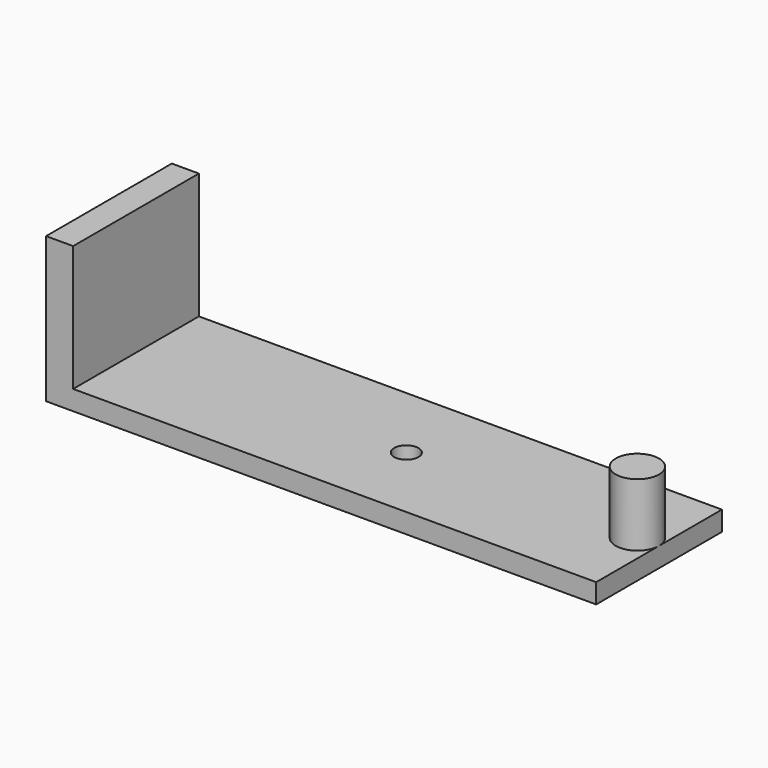
from build123d import *

# Parameters (mm, degrees)
F0_W     = 88.9
F0_H     = 25.4
F1_DEPTH = 3.175
F2_R     = 3.5
F3_DEPTH = 10.16
F4_R     = 1.9685
F5_DEPTH = 25.4
F6_W     = 4.374
F6_H     = 25.4
F7_DEPTH = 20.32


with BuildPart() as f1:
    # F0 (on Top) → F1 (new body)
    with BuildSketch(Plane.XY):
        Rectangle(F0_W, F0_H)
    extrude(amount=F1_DEPTH)

    # F2 (on face) → F3 (join)
    with BuildSketch(Plane.XY.offset(3.175)):
        with Locations((40.95, 0)):
            Circle(F2_R)
    extrude(amount=F3_DEPTH)

    # F4 (on face) → F5 (cut)
    with BuildSketch(Plane.XY.offset(3.175)):
        with Locations((3.612, 0)):
            Circle(F4_R)
    extrude(amount=-F5_DEPTH, mode=Mode.SUBTRACT)

    # F6 (on face) → F7 (join)
    with BuildSketch(Plane.XY.offset(3.175)):
        with Locations((-42.263, 0)):
            Rectangle(F6_W, F6_H)
    extrude(amount=F7_DEPTH)


solid = f1.part
